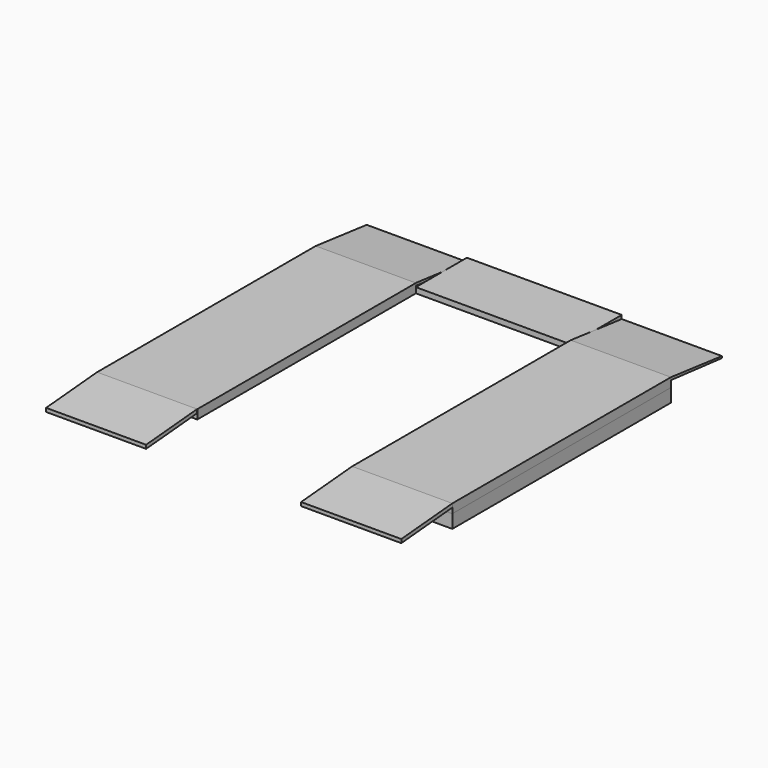
from build123d import *

# Parameters (mm, degrees)
F0_W     = 550
F0_H     = 1500
F1_DEPTH = 50
F0_W_2   = 850
F0_H_2   = 350
F2_DEPTH = 30
F4_DEPTH = 550
F3_W     = 1500
F3_H     = 73.396802
F5_DEPTH = 550
F6_DEPTH = 550
F8_DEPTH = 549


with BuildPart() as f1:
    # F0 (on Top) → F1 (new body)
    with BuildSketch(Plane.XY):
        with Locations((-1675, 750)):
            Rectangle(F0_W, F0_H)
        with Locations((-275, 750)):
            Rectangle(F0_W, F0_H)
    extrude(amount=F1_DEPTH)

    # F3 (on face) → F4 (join)
    with BuildSketch(Plane.YZ):
        Polygon((-350, 20), (-350, 0), (0, 30), (0, 50), align=None)
    extrude(amount=-F4_DEPTH)

    # F7 (on face) → F8 (join)
    with BuildSketch(Plane(origin=(-1950, 0, 0), x_dir=(0, -1, 0), z_dir=(-1, 0, 0))):
        Polygon((0, 50), (0, 30), (350, 0), (350, 20), align=None)
        Polygon((-1850, 0), (-1500, 35.742112), (-1500, 50), (-1850, 10), align=None)
    extrude(amount=-F8_DEPTH)


with BuildPart() as f2:
    # F0 (on Top) → F2 (new body)
    with BuildSketch(Plane.XY):
        with Locations((-975, 1675)):
            Rectangle(F0_W_2, F0_H_2)
    extrude(amount=F2_DEPTH)


with BuildPart() as f5:
    # F3 (on face) → F5 (new body)
    with BuildSketch(Plane.YZ):
        Polygon((-350, 20), (-350, 0), (0, 30), (0, 50), align=None)
        with Locations((750, -36.698401)):
            Rectangle(F3_W, F3_H)
    extrude(amount=-F5_DEPTH)


with BuildPart() as f6:
    # F3 (on face) → F6 (new body)
    with BuildSketch(Plane.YZ):
        Polygon((1500, 50), (1500, 35.742112), (1850, 0), (1850, 10), align=None)
    extrude(amount=-F6_DEPTH)


solid = Compound([f1.part, f2.part, f5.part, f6.part])
